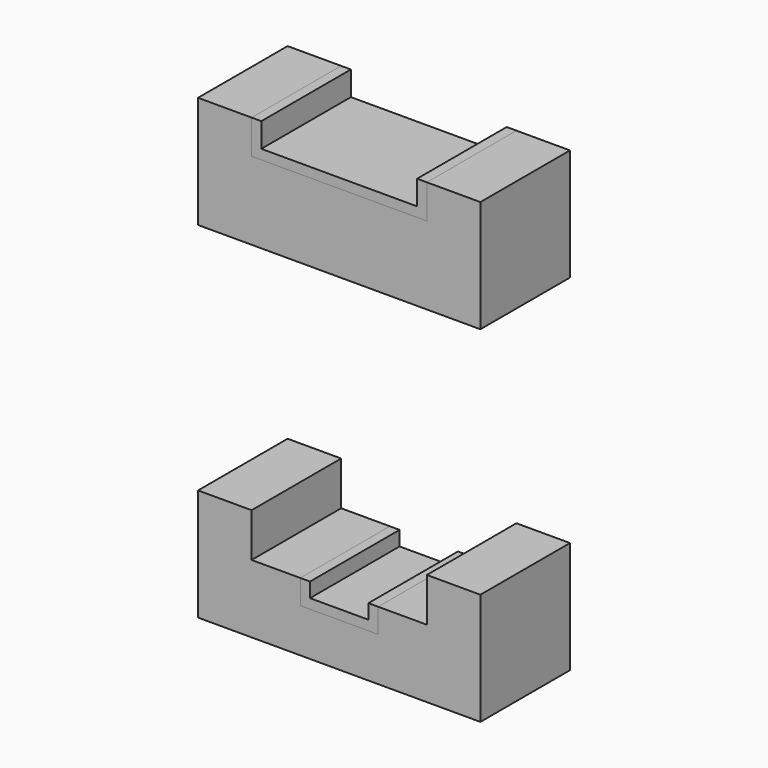
from build123d import *

# Parameters (mm, degrees)
F2_DEPTH = 23
F3_DEPTH = 23


with BuildPart() as f2:
    # F1 (on Front) → F2 (new body)
    with BuildSketch(Plane.XZ):
        Polygon((41, 190), (41, 199), (30, 199), (30, 176), (88, 176), (88, 199), (77, 199), (77, 190), (67, 190), (67, 185), (51, 185), (51, 190), align=None)
        Polygon((41, 263), (41, 270), (30, 270), (30, 247), (88, 247), (88, 270), (77, 270), (77, 263), align=None)
    extrude(amount=F2_DEPTH)


with BuildPart() as f3:
    # F1 (on Front) → F3 (new body)
    with BuildSketch(Plane.XZ):
        Polygon((43, 270), (41, 270), (41, 263), (77, 263), (77, 270), (75, 270), (75, 265), (43, 265), align=None)
        Polygon((53, 190), (51, 190), (51, 185), (67, 185), (67, 190), (65, 190), (65, 187), (53, 187), align=None)
    extrude(amount=F3_DEPTH)


solid = Compound([f2.part, f3.part])
